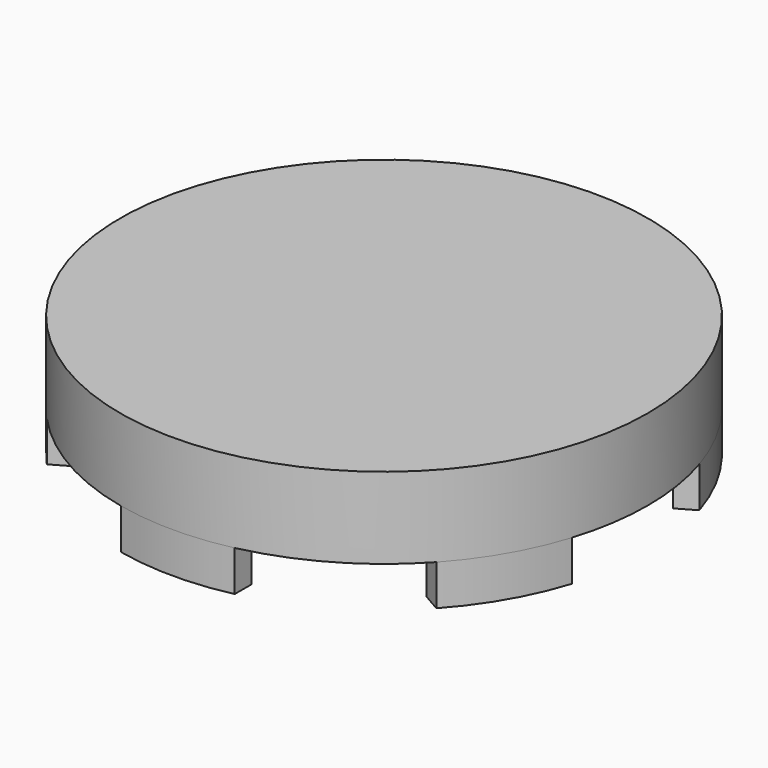
from build123d import *

# Parameters (mm, degrees)
SKETCH044_R           = 32.5
PAD022_DEPTH          = 10
THICKNESS002_T        = -2.4
PAD023_DEPTH          = 5
POLARPATTERN012_COUNT = 6


with BuildPart() as part:
    # Sketch044 → Pad022 (new body)
    with BuildSketch(Plane.XY):
        Circle(SKETCH044_R)
    extrude(amount=PAD022_DEPTH)

    # Thickness002
    thickness002_openings = [part.faces().sort_by_distance(p)[0] for p in [
        (0, 0, 0),
    ]]
    offset(amount=THICKNESS002_T, openings=thickness002_openings)

    # Sketch045 (on Face2 of Pad022) → Pad023 (join)
    with BuildSketch(Plane(origin=(0, 0, 0), x_dir=(1, 0, 0), z_dir=(0, 0, -1))):
        with BuildLine():
            Line((-7, 31.7372021451), (-7, 29.1719042916))
            ThreePointArc((7, 29.1719042916), (0, 30), (-7, 29.1719042916))
            Line((7, 29.1719042916), (7, 31.7372021451))
            ThreePointArc((7, 31.7372021451), (0, 32.5), (-7, 31.7372021451))
        make_face()
    pad023 = extrude(amount=PAD023_DEPTH)

    # PolarPattern012: Pad023 ×6 about axis
    polarpattern012_axis = Axis((0, 0, 0), (0, 0, -1))
    for i in range(1, POLARPATTERN012_COUNT):
        add(pad023.rotate(polarpattern012_axis, i * 360 / POLARPATTERN012_COUNT))


solid = part.part
